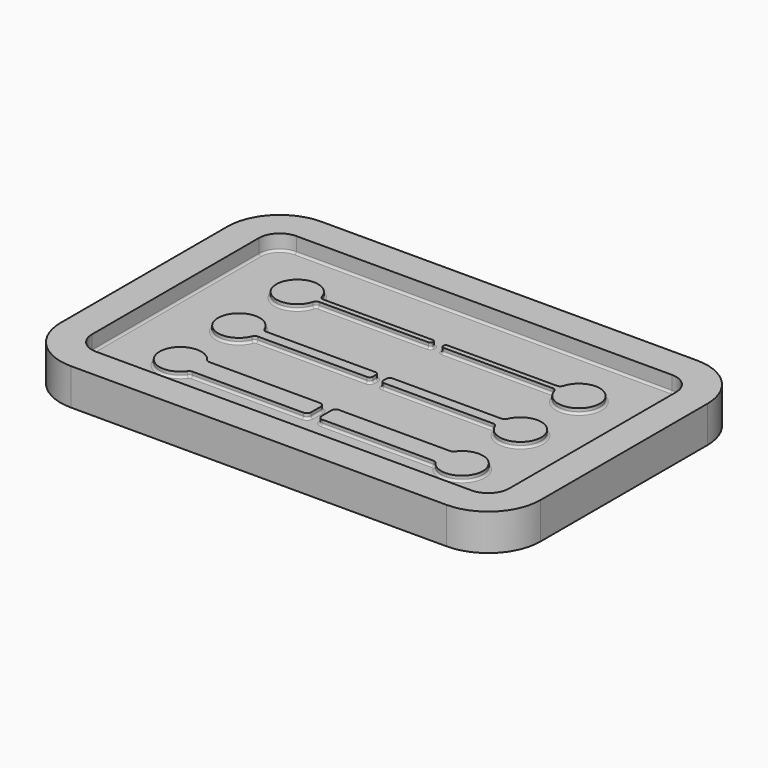
from build123d import *

# Parameters (mm, degrees)
F2_DEPTH = 2
F3_R     = 2
F4_DEPTH = 0.5
F6_DEPTH = 3.5
F7_R     = 0.2


with BuildPart() as f2:
    # F1 (on Top) → F2 (new body)
    with BuildSketch(Plane.XY):
        Polygon((14.393010688, 8.6883302754), (-5.606989312, 8.6883302754), (-25.606989312, 8.6883302754), (-25.606989312, -3.3116697246), (-25.606989312, -15.3116697246), (-5.606989312, -15.3116697246), (14.393010688, -15.3116697246), (14.393010688, -3.3116697246), align=None)
    extrude(amount=-F2_DEPTH)

    # F3
    f3_edges = [f2.edges().sort_by_distance(p)[0] for p in [
        (-25.606989, -15.31167, -1),
        (14.393011, -15.31167, -1),
        (14.393011, 8.68833, -1),
        (-25.606989, 8.68833, -1),
    ]]
    fillet(f3_edges, radius=F3_R)

    # F0 (on Top) → F4 (join)
    with BuildSketch(Plane.XY):
        with BuildLine():
            Line((-6.306989312, 3.4218639718), (-16.106989312, 3.4218639718))
            Line((-16.106989312, 3.4218639718), (-16.7966863016, 3.4218639718))
            ThreePointArc((-16.7966863016, 3.4218639718), (-17.0382092474, 3.5030118639), (-17.1817368034, 3.7135306384))
            ThreePointArc((-17.1817368034, 3.7135306384), (-21.106989312, 3.1718639718), (-17.1817368034, 2.6301973051))
            ThreePointArc((-17.1817368034, 2.6301973051), (-17.0382092474, 2.8407160796), (-16.7966863016, 2.9218639718))
            Line((-16.7966863016, 2.9218639718), (-16.106989312, 2.9218639718))
            Line((-16.106989312, 2.9218639718), (-6.306989312, 2.9218639718))
            ThreePointArc((-6.306989312, 2.9218639718), (-6.1655679558, 2.9804426155), (-6.106989312, 3.1218639718))
            Line((-6.106989312, 3.1218639718), (-6.106989312, 3.1718639718))
            Line((-6.106989312, 3.1718639718), (-6.106989312, 3.2218639718))
            ThreePointArc((-6.106989312, 3.2218639718), (-6.1655679558, 3.363285328), (-6.306989312, 3.4218639718))
        make_face()
        with BuildLine():
            Line((-6.106989312, -4.0281360282), (-6.106989312, -3.8281360282))
            Line((-6.106989312, -3.8281360282), (-6.106989312, -3.6281360282))
            ThreePointArc((-6.106989312, -3.6281360282), (-6.1948572777, -3.4160039939), (-6.406989312, -3.3281360282))
            Line((-6.406989312, -3.3281360282), (-16.106989312, -3.3281360282))
            Line((-16.106989312, -3.3281360282), (-16.8821297659, -3.3281360282))
            ThreePointArc((-16.8821297659, -3.3281360282), (-17.1057365637, -3.2597985073), (-17.2529396903, -3.0781360282))
            ThreePointArc((-17.2529396903, -3.0781360282), (-21.106989312, -3.8281360282), (-17.2529396903, -4.5781360282))
            ThreePointArc((-17.2529396903, -4.5781360282), (-17.1057365637, -4.3964735492), (-16.8821297659, -4.3281360282))
            Line((-16.8821297659, -4.3281360282), (-16.106989312, -4.3281360282))
            Line((-16.106989312, -4.3281360282), (-6.406989312, -4.3281360282))
            ThreePointArc((-6.406989312, -4.3281360282), (-6.1948572777, -4.2402680626), (-6.106989312, -4.0281360282))
        make_face()
        with BuildLine():
            ThreePointArc((-6.1069900542, -10.2281360282), (-6.2241473418, -9.9452933158), (-6.5069900542, -9.8281360282))
            Line((-6.5069900542, -9.8281360282), (-16.1069900542, -9.8281360282))
            Line((-16.1069900542, -9.8281360282), (-17.1576311853, -9.8281360282))
            ThreePointArc((-17.1576311853, -9.8281360282), (-17.3402053711, -9.7840386366), (-17.4825243301, -9.6614693616))
            ThreePointArc((-17.4825243301, -9.6614693616), (-21.1069900542, -10.8281360282), (-17.4825243301, -11.9948026949))
            ThreePointArc((-17.4825243301, -11.9948026949), (-17.3402053711, -11.8722334198), (-17.1576311853, -11.8281360282))
            Line((-17.1576311853, -11.8281360282), (-16.1069900542, -11.8281360282))
            Line((-16.1069900542, -11.8281360282), (-6.5069900542, -11.8281360282))
            ThreePointArc((-6.5069900542, -11.8281360282), (-6.2241473418, -11.7109787407), (-6.1069900542, -11.4281360282))
            Line((-6.1069900542, -11.4281360282), (-6.1069900542, -10.8281360282))
            Line((-6.1069900542, -10.8281360282), (-6.1069900542, -10.2281360282))
        make_face()
        with BuildLine():
            Line((-5.106989312, 3.1718639718), (-5.106989312, 3.1218639718))
            ThreePointArc((-5.106989312, 3.1218639718), (-5.0484106683, 2.9804426155), (-4.906989312, 2.9218639718))
            Line((-4.906989312, 2.9218639718), (4.893010688, 2.9218639718))
            Line((4.893010688, 2.9218639718), (5.5827076775, 2.9218639718))
            ThreePointArc((5.5827076775, 2.9218639718), (5.8242306233, 2.8407160796), (5.9677581793, 2.6301973051))
            ThreePointArc((5.9677581793, 2.6301973051), (9.893010688, 3.1718639718), (5.9677581793, 3.7135306384))
            ThreePointArc((5.9677581793, 3.7135306384), (5.8242306233, 3.5030118639), (5.5827076775, 3.4218639718))
            Line((5.5827076775, 3.4218639718), (4.893010688, 3.4218639718))
            Line((4.893010688, 3.4218639718), (-4.906989312, 3.4218639718))
            ThreePointArc((-4.906989312, 3.4218639718), (-5.0484106683, 3.363285328), (-5.106989312, 3.2218639718))
            Line((-5.106989312, 3.2218639718), (-5.106989312, 3.1718639718))
        make_face()
        with BuildLine():
            Line((-5.106989312, -3.6281360282), (-5.106989312, -3.8281360282))
            Line((-5.106989312, -3.8281360282), (-5.106989312, -4.0281360282))
            ThreePointArc((-5.106989312, -4.0281360282), (-5.0191213464, -4.2402680626), (-4.806989312, -4.3281360282))
            Line((-4.806989312, -4.3281360282), (4.893010688, -4.3281360282))
            Line((4.893010688, -4.3281360282), (5.6681511418, -4.3281360282))
            ThreePointArc((5.6681511418, -4.3281360282), (5.8917579396, -4.3964735492), (6.0389610662, -4.5781360282))
            ThreePointArc((6.0389610662, -4.5781360282), (9.893010688, -3.8281360282), (6.0389610662, -3.0781360282))
            ThreePointArc((6.0389610662, -3.0781360282), (5.8917579396, -3.2597985073), (5.6681511418, -3.3281360282))
            Line((5.6681511418, -3.3281360282), (4.893010688, -3.3281360282))
            Line((4.893010688, -3.3281360282), (-4.806989312, -3.3281360282))
            ThreePointArc((-4.806989312, -3.3281360282), (-5.0191213464, -3.4160039939), (-5.106989312, -3.6281360282))
        make_face()
        with BuildLine():
            Line((4.8930114302, -11.8281360282), (5.9436525612, -11.8281360282))
            ThreePointArc((5.9436525612, -11.8281360282), (6.126226747, -11.8722334198), (6.268545706, -11.9948026949))
            ThreePointArc((6.268545706, -11.9948026949), (9.8930114302, -10.8281360282), (6.268545706, -9.6614693616))
            ThreePointArc((6.268545706, -9.6614693616), (6.126226747, -9.7840386366), (5.9436525612, -9.8281360282))
            Line((5.9436525612, -9.8281360282), (4.8930114302, -9.8281360282))
            Line((4.8930114302, -9.8281360282), (-4.7069885698, -9.8281360282))
            ThreePointArc((-4.7069885698, -9.8281360282), (-4.9898312823, -9.9452933158), (-5.1069885698, -10.2281360282))
            Line((-5.1069885698, -10.2281360282), (-5.1069885698, -10.8281360282))
            Line((-5.1069885698, -10.8281360282), (-5.1069885698, -11.4281360282))
            ThreePointArc((-5.1069885698, -11.4281360282), (-4.9898312823, -11.7109787407), (-4.7069885698, -11.8281360282))
            Line((-4.7069885698, -11.8281360282), (4.8930114302, -11.8281360282))
        make_face()
    extrude(amount=F4_DEPTH)

    # F5 (on face) → F6 (join)
    with BuildSketch(Plane(origin=(0, 0, -2), x_dir=(1, 0, 0), z_dir=(0, 0, -1))):
        with BuildLine():
            Line((12.393010688, 18.3116697246), (-23.606989312, 18.3116697246))
            ThreePointArc((-23.606989312, 18.3116697246), (-27.142523218, 16.8472036305), (-28.606989312, 13.3116697246))
            Line((-28.606989312, 13.3116697246), (-28.606989312, -6.6883302754))
            ThreePointArc((-28.606989312, -6.6883302754), (-27.142523218, -10.2238641814), (-23.606989312, -11.6883302754))
            Line((-23.606989312, -11.6883302754), (12.393010688, -11.6883302754))
            ThreePointArc((12.393010688, -11.6883302754), (15.9285445939, -10.2238641814), (17.393010688, -6.6883302754))
            Line((17.393010688, -6.6883302754), (17.393010688, 13.3116697246))
            ThreePointArc((17.393010688, 13.3116697246), (15.9285445939, 16.8472036305), (12.393010688, 18.3116697246))
        make_face()
        with BuildLine():
            Line((12.393010688, -8.6883302754), (-23.606989312, -8.6883302754))
            ThreePointArc((-23.606989312, -8.6883302754), (-25.0212028744, -8.1025438378), (-25.606989312, -6.6883302754))
            Line((-25.606989312, -6.6883302754), (-25.606989312, 13.3116697246))
            ThreePointArc((-25.606989312, 13.3116697246), (-25.0212028744, 14.7258832869), (-23.606989312, 15.3116697246))
            Line((-23.606989312, 15.3116697246), (12.393010688, 15.3116697246))
            ThreePointArc((12.393010688, 15.3116697246), (13.8072242503, 14.7258832869), (14.393010688, 13.3116697246))
            Line((14.393010688, 13.3116697246), (14.393010688, -6.6883302754))
            ThreePointArc((14.393010688, -6.6883302754), (13.8072242503, -8.1025438378), (12.393010688, -8.6883302754))
        make_face(mode=Mode.SUBTRACT)
    extrude(amount=-F6_DEPTH)

    # F7
    f7_edges = [f2.edges().sort_by_distance(p)[0] for p in [
        (-5.606989, 8.68833, 0),
        (-25.021203, 8.102544, 0),
        (13.807224, 8.102544, 0),
        (-25.606989, -3.31167, 0),
        (14.393011, -3.31167, 0),
        (-25.021203, -14.725883, 0),
        (13.807224, -14.725883, 0),
        (-5.606989, -15.31167, 0),
        (-6.224147, -9.945293, 0),
        (-11.832311, -9.828136, 0),
        (-17.340205, -9.784039, 0),
        (-21.10699, -10.828136, 0),
        (-17.340205, -11.872233, 0),
        (-11.832311, -11.828136, 0),
        (-6.224147, -11.710979, 0),
        (-6.10699, -10.828136, 0),
        (0.618332, -11.828136, 0),
        (6.126227, -11.872233, 0),
        (9.893011, -10.828136, 0),
        (6.126227, -9.784039, 0),
        (0.618332, -9.828136, 0),
        (-4.989831, -9.945293, 0),
        (-5.106989, -10.828136, 0),
        (-4.989831, -11.710979, 0),
        (-17.105737, -4.396474, 0),
        (-11.64456, -4.328136, 0),
        (-6.194857, -4.240268, 0),
        (-6.106989, -3.828136, 0),
        (-6.194857, -3.416004, 0),
        (-11.64456, -3.328136, 0),
        (-17.105737, -3.259799, 0),
        (-21.106989, -3.828136, 0),
        (-11.551838, 3.421864, 0),
        (-17.038209, 3.503012, 0),
        (-21.106989, 3.171864, 0),
        (-17.038209, 2.840716, 0),
        (-11.551838, 2.921864, 0),
        (-6.165568, 2.980443, 0),
        (-6.106989, 3.171864, 0),
        (-6.165568, 3.363285, 0),
        (9.893011, -3.828136, 0),
        (5.891758, -3.259799, 0),
        (0.430581, -3.328136, 0),
        (-5.019121, -3.416004, 0),
        (-5.106989, -3.828136, 0),
        (-5.019121, -4.240268, 0),
        (0.430581, -4.328136, 0),
        (5.891758, -4.396474, 0),
        (5.824231, 3.503012, 0),
        (0.337859, 3.421864, 0),
        (-5.048411, 3.363285, 0),
        (-5.106989, 3.171864, 0),
        (-5.048411, 2.980443, 0),
        (0.337859, 2.921864, 0),
        (5.824231, 2.840716, 0),
        (9.893011, 3.171864, 0),
    ]]
    fillet(f7_edges, radius=F7_R)


solid = f2.part
